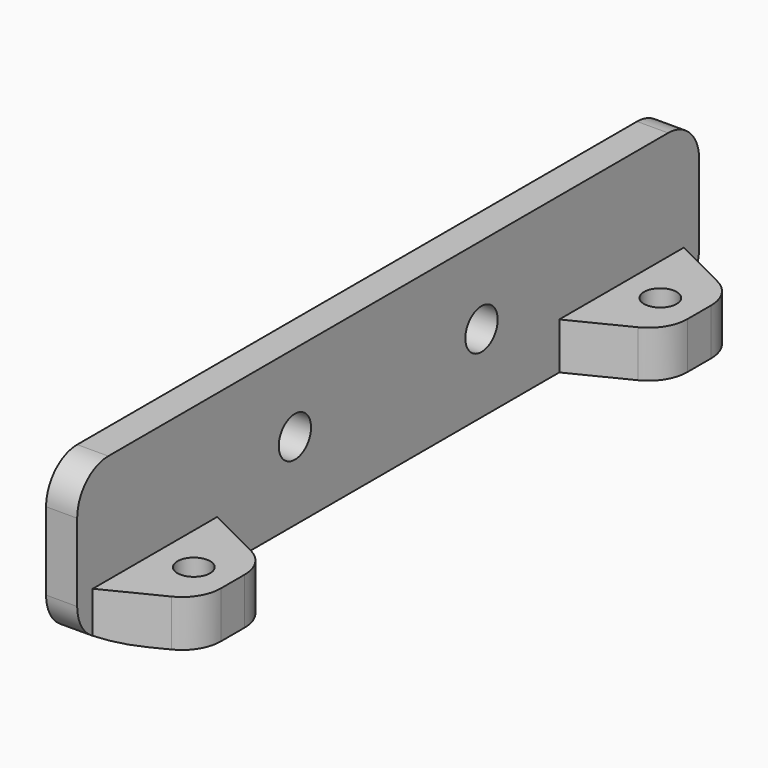
from build123d import *

# Parameters (mm, degrees)
F0_W     = 100
F0_H     = 20
F0_R     = 2.6
F1_DEPTH = 4
F2_R     = 2.1
F3_DEPTH = 6
F4_DEPTH = 3.2
F6_R     = 5


with BuildPart() as f1:
    # F0 (on Right) → F1 (new body)
    with BuildSketch(Plane.YZ):
        Rectangle(F0_W, F0_H)
        with Locations((-15, 0)):
            Circle(F0_R, mode=Mode.SUBTRACT)
        with Locations((15, 0)):
            Circle(F0_R, mode=Mode.SUBTRACT)
    extrude(amount=-F1_DEPTH)

    # F2 (on face) → F3 (join)
    with BuildSketch(Plane(origin=(0, 0, -10), x_dir=(1, 0, 0), z_dir=(0, 0, -1))):
        with BuildLine():
            Line((7.2360679775, 43.8819660113), (0, 47.5))
            Line((0, 47.5), (0, 27.5))
            Line((0, 27.5), (7.2360679775, 31.1180339887))
            ThreePointArc((7.2360679775, 31.1180339887), (9.2532540418, 32.9615143832), (10, 35.5901699437))
            Line((10, 35.5901699437), (10, 39.4098300563))
            ThreePointArc((10, 39.4098300563), (9.2532540418, 42.0384856168), (7.2360679775, 43.8819660113))
        make_face()
        Polygon((5, 41.5991869112), (8.55, 39.5495934556), (8.55, 35.4504065444), (5, 33.4008130888), (1.45, 35.4504065444), (1.45, 39.5495934556), align=None, mode=Mode.SUBTRACT)
        Polygon((8.55, 35.4504065444), (8.55, 39.5495934556), (5, 41.5991869112), (1.45, 39.5495934556), (1.45, 35.4504065444), (5, 33.4008130888), align=None)
        with Locations((5, 37.5)):
            Circle(F2_R, mode=Mode.SUBTRACT)
    extrude(amount=-F3_DEPTH)

    # F2 (on face) → F4 (cut)
    with BuildSketch(Plane(origin=(0, 0, -10), x_dir=(1, 0, 0), z_dir=(0, 0, -1))):
        Polygon((8.55, 35.4504065444), (8.55, 39.5495934556), (5, 41.5991869112), (1.45, 39.5495934556), (1.45, 35.4504065444), (5, 33.4008130888), align=None)
        with Locations((5, 37.5)):
            Circle(F2_R, mode=Mode.SUBTRACT)
    extrude(amount=-F4_DEPTH, mode=Mode.SUBTRACT)

    # F5: F1 across plane


with BuildPart() as f1_1:
    add(f1.part)
    add(f1.part.mirror(Plane.XZ))

    # F6
    f6_edges = [f1_1.edges().sort_by_distance(p)[0] for p in [
        (-2, -50, 10),
        (-2, -50, -10),
        (-2, 50, -10),
        (-2, 50, 10),
    ]]
    fillet(f6_edges, radius=F6_R)


solid = f1_1.part
